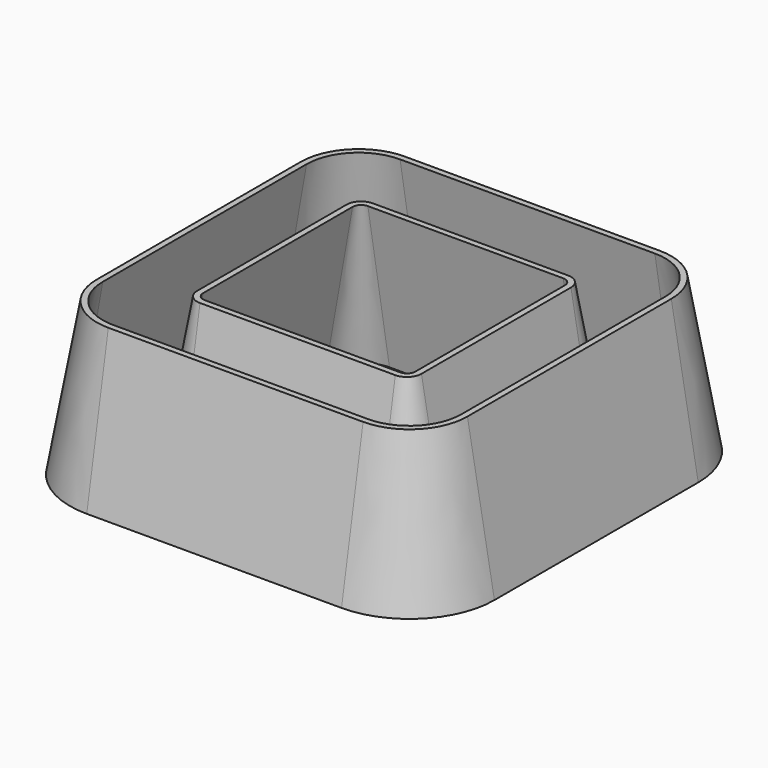
from build123d import *

# Parameters (mm, degrees)
F1_DEPTH = 18
F1_TAPER = 10
F3_DEPTH = 18.001
F3_TAPER = -10
F4_T     = -0.7


with BuildPart() as f1:
    # F0 (on Top) → F1 (new body)
    with BuildSketch(Plane.XY):
        with BuildLine():
            ThreePointArc((25, 15), (22.0710678119, 22.0710678119), (15, 25))
            Line((15, 25), (-15, 25))
            ThreePointArc((-15, 25), (-22.0710678119, 22.0710678119), (-25, 15))
            Line((-25, 15), (-25, -15))
            ThreePointArc((-25, -15), (-22.0710678119, -22.0710678119), (-15, -25))
            Line((-15, -25), (15, -25))
            ThreePointArc((15, -25), (22.0710678119, -22.0710678119), (25, -15))
            Line((25, -15), (25, 15))
        make_face()
    extrude(amount=F1_DEPTH, taper=F1_TAPER)

    # F2 (on face) → F3 (cut, through all)
    with BuildSketch(Plane.XY.offset(18)):
        with BuildLine():
            ThreePointArc((12.5, 11), (12.2071067812, 11.7071067812), (11.5, 12))
            Line((11.5, 12), (-11.5, 12))
            ThreePointArc((-11.5, 12), (-12.2071067812, 11.7071067812), (-12.5, 11))
            Line((-12.5, 11), (-12.5, -11))
            ThreePointArc((-12.5, -11), (-12.2071067812, -11.7071067812), (-11.5, -12))
            Line((-11.5, -12), (11.5, -12))
            ThreePointArc((11.5, -12), (12.2071067812, -11.7071067812), (12.5, -11))
            Line((12.5, -11), (12.5, 11))
        make_face()
    extrude(amount=-F3_DEPTH, taper=F3_TAPER, mode=Mode.SUBTRACT)

    # F4
    f4_openings = [f1.faces().sort_by_distance(p)[0] for p in [
        (21.208779, 0, 18),
    ]]
    offset(amount=F4_T, openings=f4_openings)


solid = f1.part
